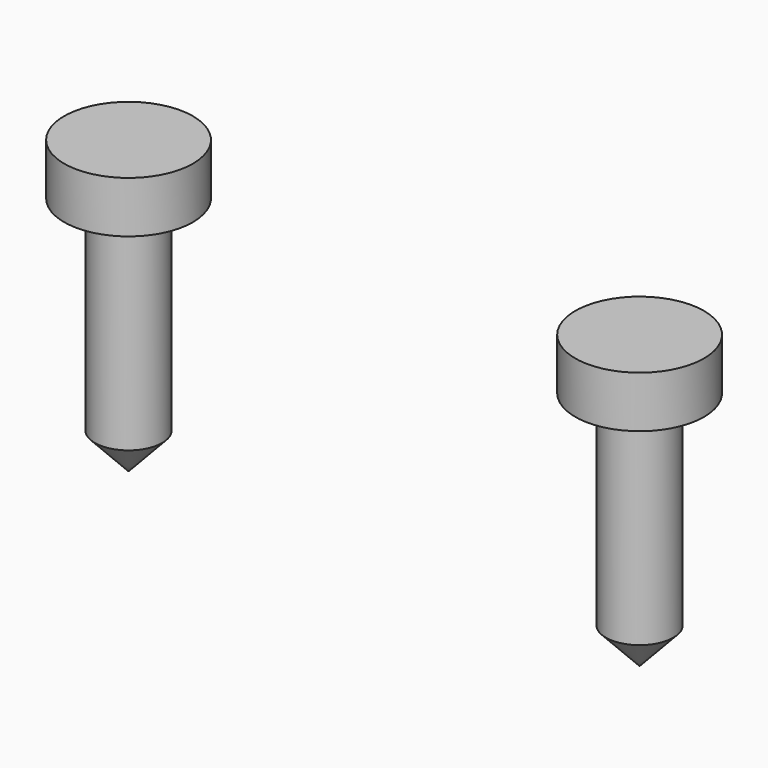
from build123d import *


with BuildPart() as f1:
    # F0 (on Front) → F1 (revolve)
    with BuildSketch(Plane.XZ):
        Polygon((0, 8.636), (0, 0), (0.997793, 1.066832), (0.997793, 7.112), (1.905, 7.112), (1.905, 8.636), align=None)
    revolve(axis=Axis((0, 0, 4.318), (0, 0, -1)))


with BuildPart() as f3:
    # F2 (on Front) → F3 (revolve)
    with BuildSketch(Plane.XZ):
        Polygon((-15.122191, 8.790955), (-15.122191, 0.154955), (-14.124398, 1.221787), (-14.124398, 7.266955), (-13.217191, 7.266955), (-13.217191, 8.790955), align=None)
    revolve(axis=Axis((-15.122191, 0, 4.472955), (0, 0, -1)))


solid = Compound([f1.part, f3.part])
